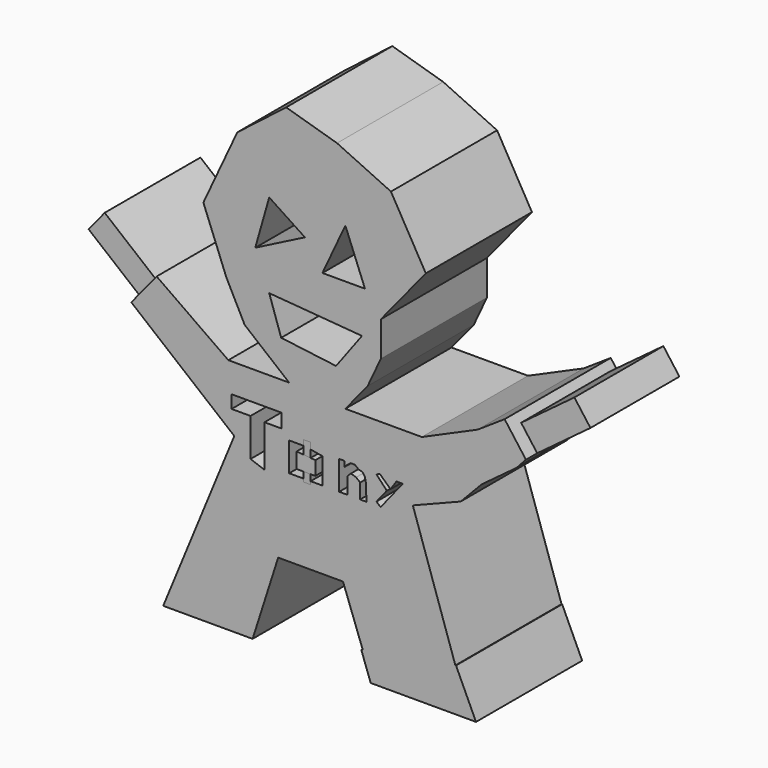
from build123d import *

# Parameters (mm, degrees)
F0_W      = 127
F0_H      = 127
F1_DEPTH  = 25.4
F3_DEPTH  = 25.4
F4_W      = 127
F4_H      = 127
F5_DEPTH  = 25.4
F7_W      = 21.292546764
F7_H      = 5.1580702981
F8_DEPTH  = 12.7
F10_DEPTH = 50.8
F11_DEPTH = 25.4
F13_DEPTH = 25.4
F15_DEPTH = 25.4
F16_W     = 22.9024905711
F16_H     = 4.8794187605
F17_DEPTH = 12.7


with BuildPart() as f1:
    # F0 (on Front) → F1 (new body)
    with BuildSketch(Plane.XZ):
        with Locations((3.4296085835, -4.9572458267)):
            Rectangle(F0_W, F0_H)
    extrude(amount=F1_DEPTH)

    # F2 (on face) → F3 (join)
    with BuildSketch(Plane.XZ.offset(25.4)):
        Polygon((-11.5312809151, -6.8796158486), (-3.0120853335, -13.8442134485), (0, -18.8090335578), (4.6261004172, -18.8090335578), (7.7486997525, -14.7494874672), (12.0172404771, -9.5281472878), (14.5428453358, -4.1055250913), (14.5428453358, 2.5535861486), (23.1487024575, 13.0803938955), (16.4757714356, 24.6949718974), (6.1537381262, 29.5024942607), (-3.5849492997, 32.3668159544), (-12.9417274147, 25.1105371863), (-19.4341856986, 11.1708473414), (-15.0422295555, 0), align=None)
        Polygon((-4.5397225767, -6.778890267), (-6.8311784416, 0), (10.9276045114, -1.4321599156), (5.9627834707, -8.1155728549), align=None, mode=Mode.SUBTRACT)
        Polygon((-9.5045436174, 6.778890267), (-6.8311784416, 16.135668382), (0, 11.629446639), align=None, mode=Mode.SUBTRACT)
        Polygon((3.357668215, 6.7078653751), (7.7486997525, 16.135668382), (11.5004684776, 6.7078653751), align=None, mode=Mode.SUBTRACT)
        Polygon((-13.5145923123, -26.2562651187), (-19.2093339527, -40.0863518289), (25.1056363762, -40.0863518289), (20.6662919372, -26.8291290849), (29.8321153969, -23.2009887695), (33.8421612978, -18.9999882132), (40.5255742371, -14.0351671726), (42.3212711359, -12.0898670095), (38.2341220975, -6.5879356116), (33.0783426762, -10.0251203403), (22.3848838359, -14.7494874672), (7.7486997525, -14.7494874672), (4.6261004172, -18.8090335578), (0, -18.8090335578), (-3.0120853335, -13.8442134485), (-14.6603202447, -13.8442134485), (-28.3771033253, -4.1891960393), (-33.2364836264, -10.1332596549), align=None)
        Polygon((-3.3939946443, -25.8743558079), (1.9527353579, -25.8743558079), (1.7617807025, -32.74872154), (-3.3939946443, -32.74872154), align=None, mode=Mode.SUBTRACT)
        Polygon((1.7617807025, -32.74872154), (1.9527353579, -25.8743558079), (-3.3939946443, -25.8743558079), (-3.3939946443, -32.74872154), align=None)
        Polygon((-19.2093339527, -40.0863518289), (-27.1226547061, -59.304416334), (-10.0099617179, -59.304416334), (-5.112586543, -44.0150499344), (7.2994660586, -44.0150499344), (11.1350120984, -54.4607923407), (28.872437502, -51.3351571972), (25.1056363762, -40.0863518289), align=None)
    extrude(amount=F3_DEPTH)

    # F4 (on face) → F5 (cut)
    with BuildSketch(Plane.XZ.offset(25.4)):
        with Locations((3.4296085835, -4.9572458267)):
            Rectangle(F4_W, F4_H)
    extrude(amount=-F5_DEPTH, mode=Mode.SUBTRACT)

    # F7 (on face) → F8 (join)
    with BuildSketch(Plane(origin=(21.4843651567, 0, 15.9598141164), x_dir=(0, 1, 0), z_dir=(0.802743848, 0, 0.5963240013))):
        with Locations((-37.4624868855, -32.3632209609)):
            Rectangle(F7_W, F7_H)
    extrude(amount=F8_DEPTH)

    # F9 (on Front) → F10 (join)
    with BuildSketch(Plane.XZ):
        Polygon((28.9311148226, -51.1266589165), (10.786164552, -54.3524250388), (12.6006603241, -59.3926906586), (32.7617116272, -59.3926906586), align=None)
    extrude(amount=F10_DEPTH)

    # F11 (cut): a face of the model
    f11_faces = [f1.faces().sort_by_distance(p)[0] for p in [
        (22.0640807885, 0, -56.0179852405),
    ]]
    extrude(f11_faces, amount=-F11_DEPTH, mode=Mode.SUBTRACT)

    # F12 (on face) → F13 (cut)
    with BuildSketch(Plane.XZ.offset(50.8)):
        Polygon((-10.4070287198, -21.8643080443), (-10.4070287198, -29.1205849499), (-7.7336635441, -30.0753582269), (-7.7336635441, -22.0552626997), (-4.4874348678, -22.0552626997), (-4.4874348678, -19.381897524), (-14.0351671726, -19.381897524), (-14.0351671726, -21.8643080443), align=None)
        Polygon((3.3417069353, -24.1557639092), (0, -23.582899943), (-3.0120853335, -23.582899943), (-3.0120853335, -29.1205849499), (3.3417069353, -29.1205849499), align=None)
        Polygon((-1.5619223705, -27.9349666089), (-1.5619223705, -24.964408949), (1.9993705209, -25.2850931138), (1.9993705209, -27.9349666089), align=None, mode=Mode.SUBTRACT)
        Polygon((6.5686665475, -23.582899943), (6.5686665475, -29.1205849499), (8.1582581624, -29.1205849499), (8.1582581624, -25.9443577379), (8.8111273944, -25.3198742867), (9.8046222702, -25.632115081), (10.5710327625, -26.2562651187), (10.5710327625, -29.1205849499), (11.8199978024, -29.1205849499), (11.8199978024, -28.4139029682), (11.6780707613, -27.590719983), (11.6780707613, -25.9443577379), (11.4793712273, -24.964408949), (11.0252024606, -24.3263784796), (10.3155635297, -24.1557639092), (9.549152106, -23.582899943), (8.7827416137, -23.582899943), (8.0163311213, -24.1557639092), (7.5621614233, -24.6386211365), (7.5621614233, -23.582899943), align=None)
        Polygon((14.3463145941, -23.582899943), (13.6934462935, -23.8722097129), (15.6804360449, -25.9727425873), (13.6934462935, -28.4706745297), (14.51047718, -29.1205849499), (18.7336941345, -23.8113937363), (17.5254996866, -23.8113937363), (16.3900759071, -25.4901871085), align=None)
    extrude(amount=-F13_DEPTH, mode=Mode.SUBTRACT)

    # F16 (on face) → F17 (join)
    with BuildSketch(Plane(origin=(-14.9564348332, 0, 12.2271579685), x_dir=(0, -1, 0), z_dir=(-0.7742090335, 0, 0.6329299902))):
        with Locations((38.0530310795, -25.4627745599)):
            Rectangle(F16_W, F16_H)
    extrude(amount=F17_DEPTH)


with BuildPart() as f15:
    # F14 (on face) → F15 (new body)
    with BuildSketch(Plane.XZ.offset(50.8)):
        Polygon((-0.2678239543, -22.5552357733), (-0.2678239543, -25.0809387831), (1.0970472358, -25.2038415016), (1.0970472358, -22.5552357733), align=None)
    extrude(amount=-F15_DEPTH)


with BuildPart() as f15b:
    # F14 (on face) → F15, piece 2 (new body)
    with BuildSketch(Plane.XZ.offset(50.8)):
        Polygon((-0.2678239543, -27.9349666089), (-0.2678239543, -29.0785171092), (-0.2878957312, -29.7007374465), (1.0970472358, -29.7007374465), (1.0970472358, -27.9349666089), align=None)
    extrude(amount=-F15_DEPTH)


solid = Compound([f1.part, f15.part, f15b.part])
